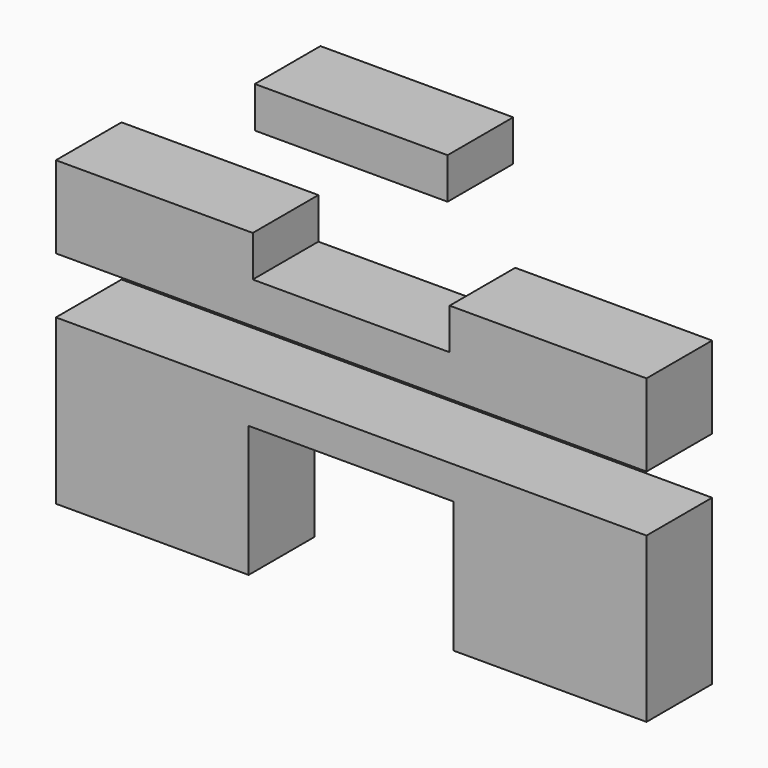
from build123d import *

# Parameters (mm, degrees)
F1_DEPTH = 5
F2_W     = 23.5
F2_H     = 5
F3_DEPTH = 5
F5_DEPTH = 5


with BuildPart() as f1:
    # F0 (on Front) → F1 (new body, symmetric)
    with BuildSketch(Plane.XZ):
        Polygon((36, -5), (36, 5), (12, 5), (12, 0), (-12, 0), (-12, 5), (-36, 5), (-36, -5), align=None)
    extrude(amount=F1_DEPTH, both=True)


with BuildPart() as f3:
    # F2 (on Front) → F3 (new body, symmetric)
    with BuildSketch(Plane.XZ):
        with Locations((0, 18.569236)):
            Rectangle(F2_W, F2_H)
    extrude(amount=F3_DEPTH, both=True)


with BuildPart() as f5:
    # F4 (on Front) → F5 (new body, symmetric)
    with BuildSketch(Plane.XZ):
        Polygon((12.5, -31.868731), (36, -31.868731), (36, -11.868731), (-36, -11.868731), (-36, -31.868731), (-12.5, -31.868731), (-12.5, -15.868731), (12.5, -15.868731), align=None)
    extrude(amount=F5_DEPTH, both=True)


solid = Compound([f1.part, f3.part, f5.part])
